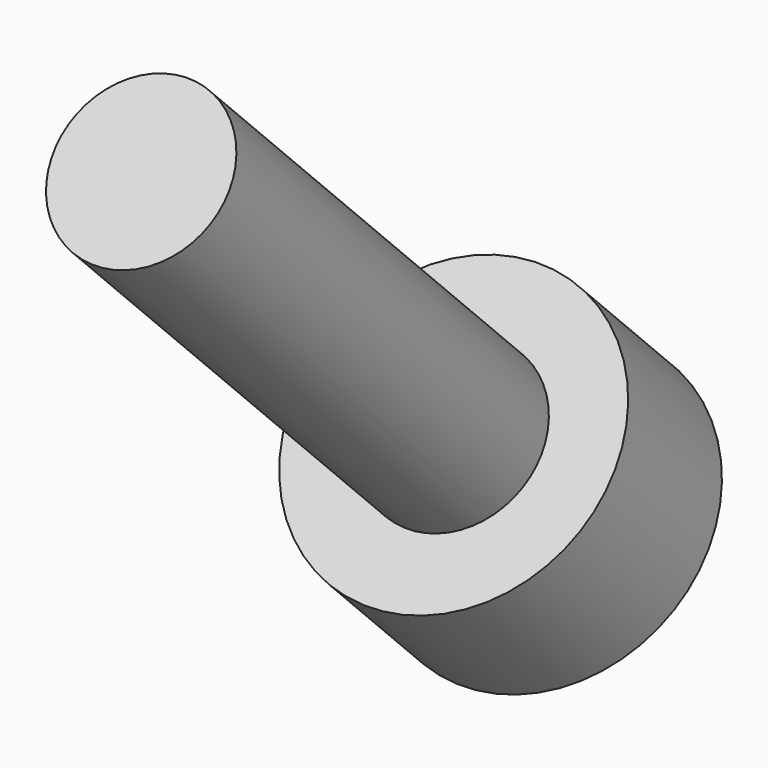
from build123d import *

# Parameters (mm, degrees)
SKETCH022_R             = 2.75
PAD011_DEPTH            = 3
SKETCH023_R             = 1.5
PAD010_DEPTH            = 10
POCKET012_DEPTH         = 4
BODY004_PLACEMENT_ANGLE = 225


with BuildPart() as part:
    # Sketch022 → Pad011 (new body)
    with BuildSketch(Plane.XY):
        Circle(SKETCH022_R)
    extrude(amount=PAD011_DEPTH)

    # Sketch023 (on Face2 of Pad011) → Pad010 (join)
    with BuildSketch(Plane(origin=(0, 0, 0), x_dir=(1, 0, 0), z_dir=(0, 0, -1))):
        Circle(SKETCH023_R)
    extrude(amount=PAD010_DEPTH)

    # Sketch024 (on DatumPlane) → Pocket012 (cut)
    with BuildSketch(Plane.XY.offset(3)):
        Polygon((0.721688, -1.25), (1.443376, 0), (0.721688, 1.25), (-0.721688, 1.25), (-1.443376, 0), (-0.721688, -1.25), align=None)
    extrude(amount=-POCKET012_DEPTH, mode=Mode.SUBTRACT)


with BuildPart() as part_1:
    # Body004 placement: moved
    add(part.part.moved(Location((-143.5, -61.581981, 5.727565))).rotate(Axis((-143.5, -61.581981, 5.727565), (1, 0, 0)), BODY004_PLACEMENT_ANGLE))


solid = part_1.part
